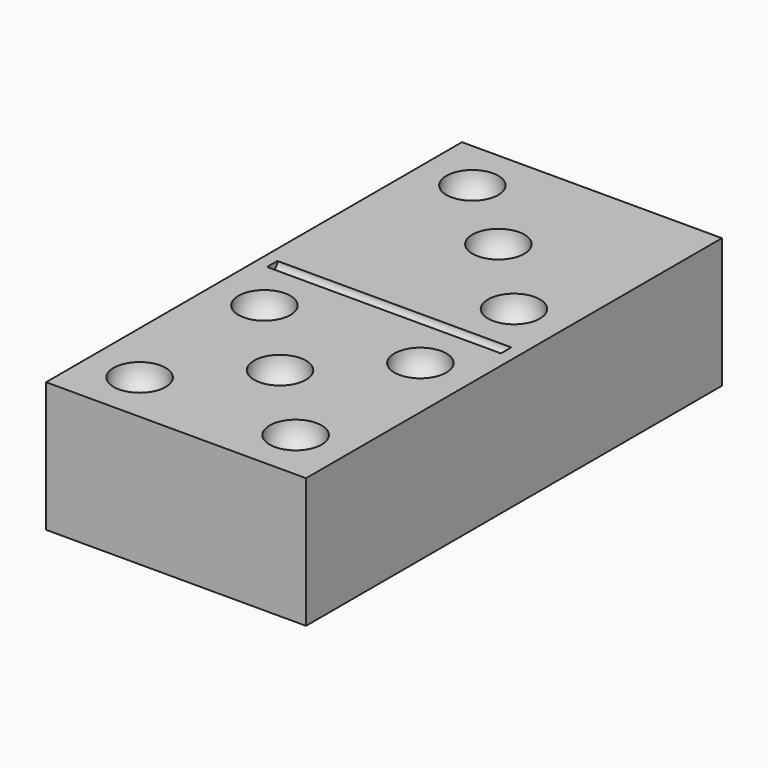
from build123d import *

# Parameters (mm, degrees)
CYLINDER_R     = 0.5
CYLINDER_DEPTH = 18
BOX_W          = 20
BOX_H          = 40
BOX_DEPTH      = 10


with BuildPart() as sphere007:
    # Sphere007 → Sphere007 (revolve)
    with BuildSketch(Plane(origin=(16, 25, 10), x_dir=(1, 0, 0), z_dir=(0, -1, 0))):
        with BuildLine():
            ThreePointArc((0, -2), (2, 0), (0, 2))
            Line((0, 2), (0, -2))
        make_face()
    revolve(axis=Axis((16, 25, 10), (0, 0, 1)))


with BuildPart() as sphere006:
    # Sphere006 → Sphere006 (revolve)
    with BuildSketch(Plane(origin=(4, 36, 10), x_dir=(1, 0, 0), z_dir=(0, -1, 0))):
        with BuildLine():
            ThreePointArc((0, -2), (2, 0), (0, 2))
            Line((0, 2), (0, -2))
        make_face()
    revolve(axis=Axis((4, 36, 10), (0, 0, 1)))


with BuildPart() as sphere005:
    # Sphere005 → Sphere005 (revolve)
    with BuildSketch(Plane(origin=(10, 31, 10), x_dir=(1, 0, 0), z_dir=(0, -1, 0))):
        with BuildLine():
            ThreePointArc((0, -2), (2, 0), (0, 2))
            Line((0, 2), (0, -2))
        make_face()
    revolve(axis=Axis((10, 31, 10), (0, 0, 1)))


with BuildPart() as fusion:
    # Fusion base: copy of Sphere005
    add(sphere005.part)

    # Fusion: union Sphere007, Sphere006
    add(sphere007.part)
    add(sphere006.part)


with BuildPart() as sphere002:
    # Sphere002 → Sphere002 (revolve)
    with BuildSketch(Plane(origin=(4, 16, 10), x_dir=(1, 0, 0), z_dir=(0, -1, 0))):
        with BuildLine():
            ThreePointArc((0, -2), (2, 0), (0, 2))
            Line((0, 2), (0, -2))
        make_face()
    revolve(axis=Axis((4, 16, 10), (0, 0, 1)))


with BuildPart() as sphere003:
    # Sphere003 → Sphere003 (revolve)
    with BuildSketch(Plane(origin=(16, 16, 10), x_dir=(1, 0, 0), z_dir=(0, -1, 0))):
        with BuildLine():
            ThreePointArc((0, -2), (2, 0), (0, 2))
            Line((0, 2), (0, -2))
        make_face()
    revolve(axis=Axis((16, 16, 10), (0, 0, 1)))


with BuildPart() as sphere004:
    # Sphere004 → Sphere004 (revolve)
    with BuildSketch(Plane(origin=(10, 10, 10), x_dir=(1, 0, 0), z_dir=(0, -1, 0))):
        with BuildLine():
            ThreePointArc((0, -2), (2, 0), (0, 2))
            Line((0, 2), (0, -2))
        make_face()
    revolve(axis=Axis((10, 10, 10), (0, 0, 1)))


with BuildPart() as sphere:
    # Sphere → Sphere (revolve)
    with BuildSketch(Plane(origin=(4, 4, 10), x_dir=(1, 0, 0), z_dir=(0, -1, 0))):
        with BuildLine():
            ThreePointArc((0, -2), (2, 0), (0, 2))
            Line((0, 2), (0, -2))
        make_face()
    revolve(axis=Axis((4, 4, 10), (0, 0, 1)))


with BuildPart() as sphere001:
    # Sphere001 → Sphere001 (revolve)
    with BuildSketch(Plane(origin=(16, 4, 10), x_dir=(1, 0, 0), z_dir=(0, -1, 0))):
        with BuildLine():
            ThreePointArc((0, -2), (2, 0), (0, 2))
            Line((0, 2), (0, -2))
        make_face()
    revolve(axis=Axis((16, 4, 10), (0, 0, 1)))


with BuildPart() as fusion001:
    # Fusion001 base: copy of Sphere005
    add(sphere005.part)

    # Fusion001: union Sphere007, Sphere006, Sphere002, Sphere003, Sphere004, Sphere, Sphere001
    add(sphere007.part)
    add(sphere006.part)
    add(sphere002.part)
    add(sphere003.part)
    add(sphere004.part)
    add(sphere.part)
    add(sphere001.part)


with BuildPart() as fusion002:
    # Cylinder → Cylinder (new body)
    with BuildSketch(Plane(origin=(1, 20.5, 10), x_dir=(0, 0, -1), z_dir=(1, 0, 0))):
        Circle(CYLINDER_R)
    extrude(amount=CYLINDER_DEPTH)

    # Fusion002: union Fusion, Fusion001
    add(fusion.part)
    add(fusion001.part)


with BuildPart() as obj1:
    # Box → Box (new body)
    with BuildSketch(Plane.XY):
        with Locations((10, 20)):
            Rectangle(BOX_W, BOX_H)
    extrude(amount=BOX_DEPTH)

    # Cut: cut Fusion002
    add(fusion002.part, mode=Mode.SUBTRACT)


solid = obj1.part
